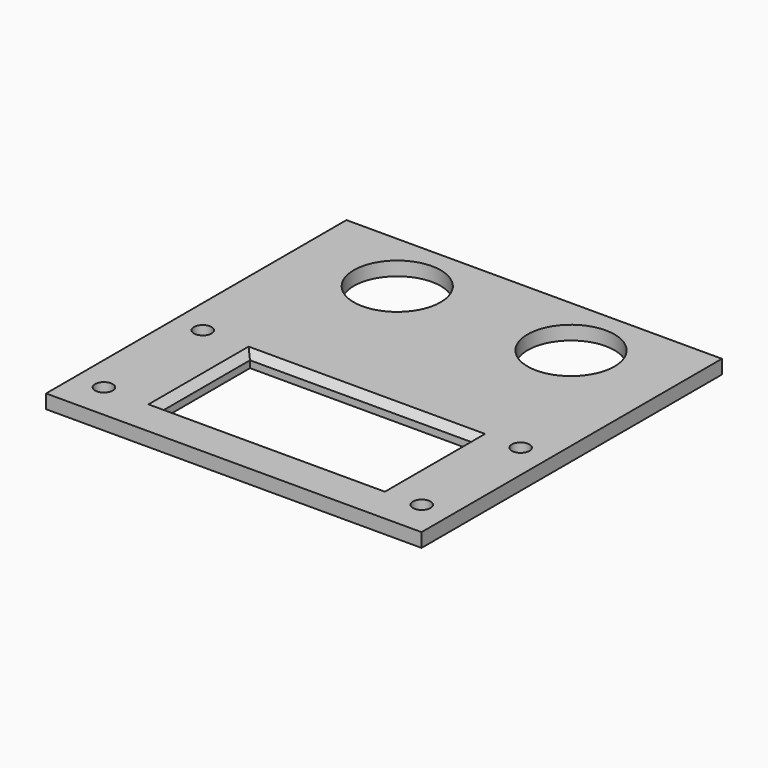
from build123d import *

# Parameters (mm, degrees)
SKETCH_W        = 54
SKETCH_H        = 54
PAD_DEPTH       = 2
SKETCH001_R     = 1.27
SKETCH001_R_2   = 6.25
SKETCH001_W     = 32
SKETCH001_H     = 16
POCKET_DEPTH    = 2
CHAMFER_SIZE    = 1
SKETCH006_W     = 4
SKETCH006_H     = 13
SKETCH006_H_2   = 3
POCKET004_DEPTH = 1


with BuildPart() as part:
    # Sketch → Pad (new body)
    with BuildSketch(Plane.XY):
        Rectangle(SKETCH_W, SKETCH_H)
    extrude(amount=PAD_DEPTH)

    # Sketch001 (on Face6 of Pad) → Pocket (cut)
    with BuildSketch(Plane.XY.offset(2)):
        with Locations((-22.86, -4)):
            Circle(SKETCH001_R)
        with Locations((22.86, -4)):
            Circle(SKETCH001_R)
        with Locations((22.86, -21.78)):
            Circle(SKETCH001_R)
        with Locations((-22.86, -21.78)):
            Circle(SKETCH001_R)
        with Locations((-12.5, 18)):
            Circle(SKETCH001_R_2)
        with Locations((12.5, 18)):
            Circle(SKETCH001_R_2)
        with Locations((0.64, -12.89)):
            Rectangle(SKETCH001_W, SKETCH001_H)
    extrude(amount=-POCKET_DEPTH, mode=Mode.SUBTRACT)

    # Chamfer
    chamfer_edges = [part.edges().sort_by_distance(p)[0] for p in [
        (0.64, -20.89, 2),
        (-15.36, -12.89, 2),
        (0.64, -4.89, 2),
        (16.64, -12.89, 2),
    ]]
    chamfer(chamfer_edges, length=CHAMFER_SIZE)

    # Sketch006 (on Face20 of Chamfer) → Pocket004 (cut)
    with BuildSketch(Plane(origin=(0, 0, 0), x_dir=(1, 0, 0), z_dir=(0, 0, -1))):
        with Locations((-20.8, 13)):
            Rectangle(SKETCH006_W, SKETCH006_H)
        with Locations((-18.5, 3.7)):
            Rectangle(SKETCH006_W, SKETCH006_H_2)
    extrude(amount=-POCKET004_DEPTH, mode=Mode.SUBTRACT)


solid = part.part
